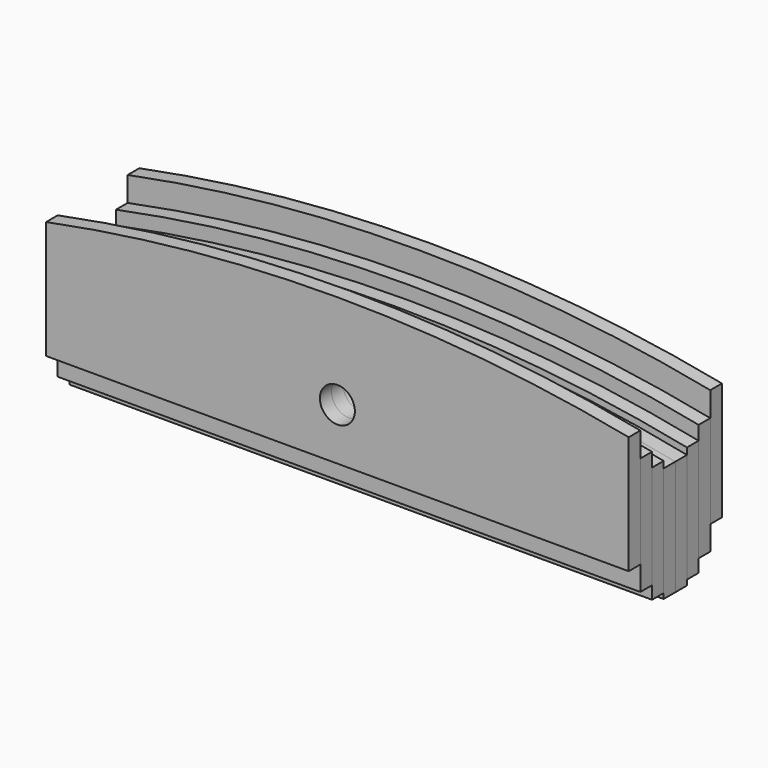
from build123d import *

# Parameters (mm, degrees)
F0_R     = 6
F1_DEPTH = 5
F2_R     = 6
F3_DEPTH = 5
F4_R     = 6
F5_DEPTH = 5
F6_R     = 6
F7_DEPTH = 5


with BuildPart() as f1:
    # F0 (on Front) → F1 (new body)
    with BuildSketch(Plane.XZ):
        with BuildLine():
            Line((-100, 7.187949), (-100, -32.29))
            Line((-100, -32.29), (100, -32.29))
            Line((100, -32.29), (100, 7.187949))
            ThreePointArc((100, 7.187949), (0, 17.29), (-100, 7.187949))
        make_face()
        Circle(F0_R, mode=Mode.SUBTRACT)
    extrude(amount=F1_DEPTH)


with BuildPart() as f3:
    # F2 (on face) → F3 (new body)
    with BuildSketch(Plane.XZ.offset(5)):
        with BuildLine():
            Line((-100, -30.49), (100, -30.49))
            Line((100, -30.49), (100, 9.453518))
            ThreePointArc((100, 9.453518), (0, 19.51), (-100, 9.453518))
            Line((-100, 9.453518), (-100, -30.49))
        make_face()
        Circle(F2_R, mode=Mode.SUBTRACT)
    extrude(amount=F3_DEPTH)


with BuildPart() as f5:
    # F4 (on face) → F5 (new body)
    with BuildSketch(Plane.XZ.offset(10)):
        with BuildLine():
            Line((-100, -26.09), (100, -26.09))
            Line((100, -26.09), (100, 14.248637))
            ThreePointArc((100, 14.248637), (0, 24.21), (-100, 14.248637))
            Line((-100, 14.248637), (-100, -26.09))
        make_face()
        Circle(F4_R, mode=Mode.SUBTRACT)
    extrude(amount=F5_DEPTH)


with BuildPart() as f7:
    # F6 (on face) → F7 (new body)
    with BuildSketch(Plane.XZ.offset(15)):
        with BuildLine():
            Line((-100, -17.79), (100, -17.79))
            Line((100, -17.79), (100, 22.702054))
            ThreePointArc((100, 22.702054), (0, 32.5), (-100, 22.702054))
            Line((-100, 22.702054), (-100, -17.79))
        make_face()
        Circle(F6_R, mode=Mode.SUBTRACT)
    extrude(amount=F7_DEPTH)


with BuildPart() as f8_1:
    # F8: instance of F1
    add(f1.part.mirror(Plane.XZ))


with BuildPart() as f8_2:
    # F8: instance of F3
    add(f3.part.mirror(Plane.XZ))


with BuildPart() as f8_3:
    # F8: instance of F5
    add(f5.part.mirror(Plane.XZ))


with BuildPart() as f8_4:
    # F8: instance of F7
    add(f7.part.mirror(Plane.XZ))


solid = Compound([f1.part, f3.part, f5.part, f7.part, f8_1.part, f8_2.part, f8_3.part, f8_4.part])
